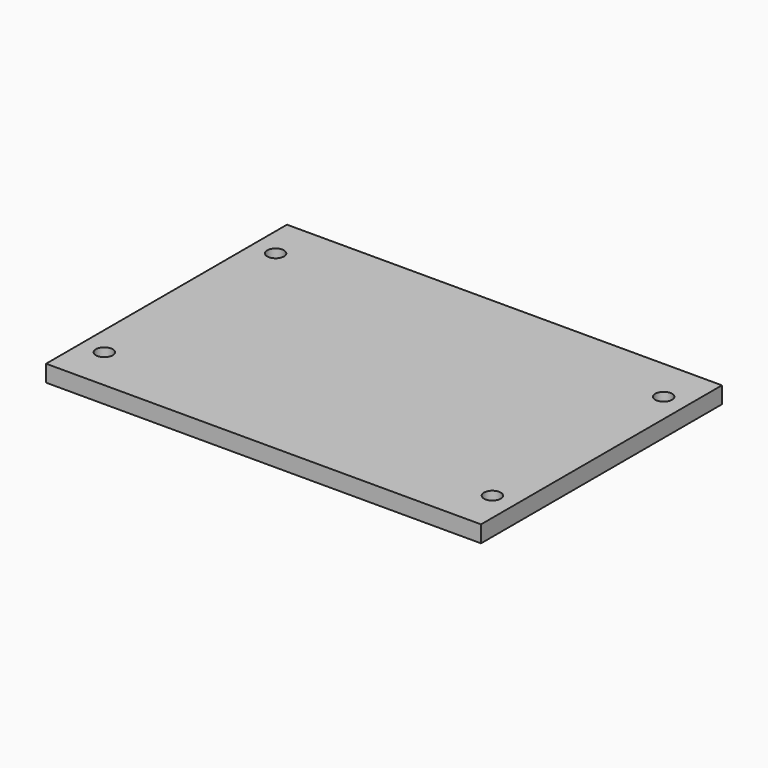
from build123d import *

# Parameters (mm, degrees)
F1_W     = 82.55
F1_H     = 57.15
F2_DEPTH = 3.175
F3_D     = 3.175


with BuildPart() as f2:
    # F1 (on face) → F2 (new body)
    with BuildSketch(Plane.XY):
        Rectangle(F1_W, F1_H)
    extrude(amount=F2_DEPTH)

    # F3 (through all)
    with Locations(Plane(origin=(0, 0, 0), x_dir=(1, 0, 0), z_dir=(0, 0, -1))):
        with Locations((36.83, -20.32), (36.83, 20.32), (-36.83, 20.32), (-36.83, -20.32)):
            Hole(F3_D / 2)


solid = f2.part
